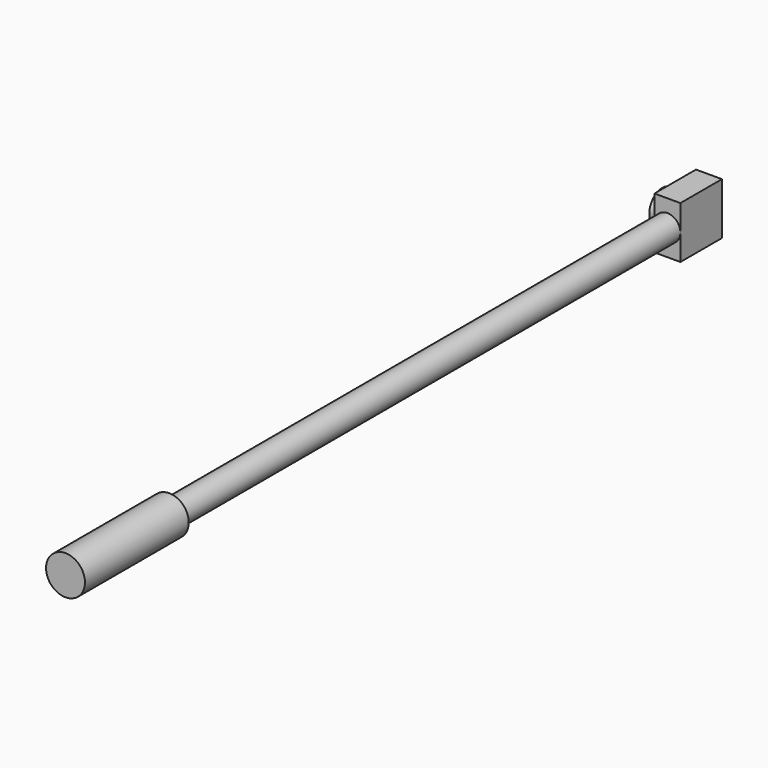
from build123d import *

# Parameters (mm, degrees)
F0_R     = 12.7
F1_DEPTH = 609.6
F2_R     = 19.05
F2_R_2   = 12.7
F3_DEPTH = 127
F4_W     = 50.8
F4_H     = 50.8
F5_DEPTH = 12.7
F6_R     = 15.875
F7_DEPTH = 12.7


with BuildPart() as f1:
    # F0 (on Front) → F1 (new body)
    with BuildSketch(Plane.XZ):
        Circle(F0_R)
    extrude(amount=F1_DEPTH)

    # F2 (on face) → F3 (join)
    with BuildSketch(Plane.XZ.offset(609.6)):
        Circle(F2_R)
        Circle(F2_R_2, mode=Mode.SUBTRACT)
        Circle(F2_R_2)
    extrude(amount=F3_DEPTH)

    # F4 (on Right) → F5 (join, symmetric)
    with BuildSketch(Plane.YZ):
        with Locations((25.4, 0)):
            Rectangle(F4_W, F4_H)
    extrude(amount=F5_DEPTH, both=True)

    # F6 (on face) → F7 (join)
    with BuildSketch(Plane(origin=(-12.7, 0, 0), x_dir=(0, -1, 0), z_dir=(-1, 0, 0))):
        with Locations((-25.4, 0)):
            Circle(F6_R)
    extrude(amount=F7_DEPTH)


solid = f1.part
